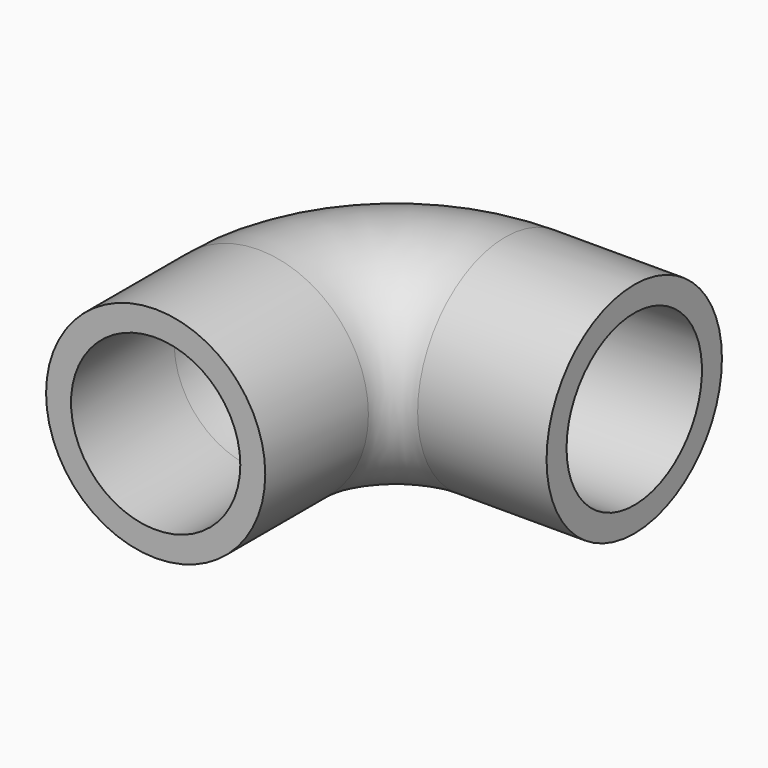
from build123d import *

# Parameters (mm, degrees)
F1_R = 13.49375
F3_T = -3.0734


with BuildPart() as f2:
    # F2: sweep along a path in F0
    with BuildLine(Plane.XY) as f2_path:
        Line((0, 0), (0, 15.875))
        ThreePointArc((0, 15.875), (0.9863460454, 18.25625), (3.3675960454, 19.2425960454))
        Line((3.3675960454, 19.2425960454), (19.2425960454, 19.2425960454))
    # F1 (on Front) → F2 (sweep)
    with BuildSketch(Plane.XZ):
        with Locations((-13.49375, 0)):
            Circle(F1_R)
    sweep(path=f2_path.line)

    # F3
    f3_openings = [f2.faces().sort_by_distance(p)[0] for p in [
        (-13.49375, 0, 0),
        (19.242596, 32.736346, 0),
    ]]
    offset(amount=F3_T, openings=f3_openings)


solid = f2.part
